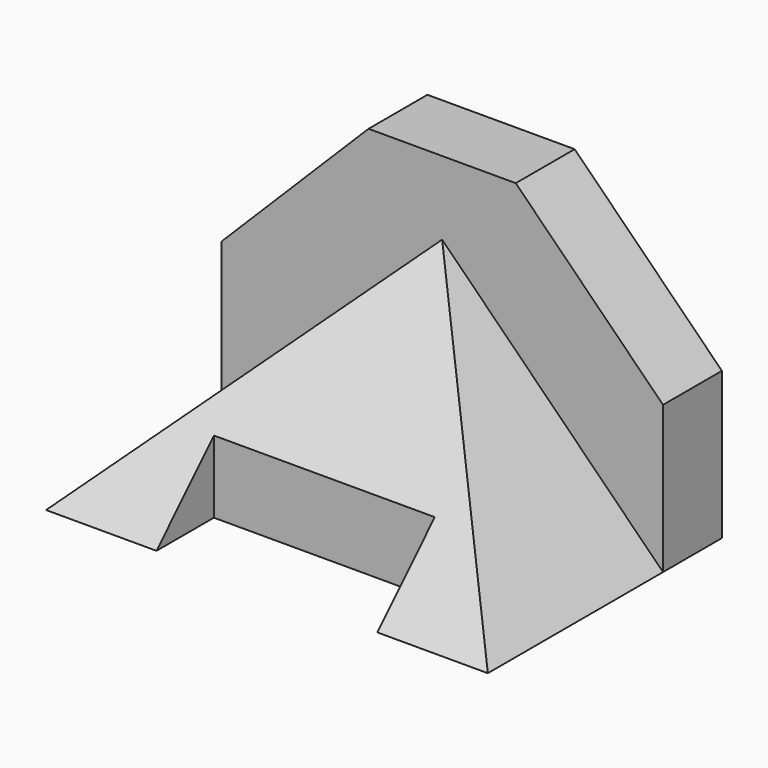
from build123d import *

# Parameters (mm, degrees)
F1_DEPTH = 12.7
F3_DEPTH = 38.1
F4_W     = 38.1
F4_H     = 12.7
F5_DEPTH = 50.801
F7_DEPTH = 76.201


with BuildPart() as f1:
    # F0 (on Front) → F1 (new body)
    with BuildSketch(Plane.XZ):
        Polygon((25.4, 50.8), (0, 25.4), (0, 0), (76.2, 0), (76.2, 25.4), (50.8, 50.8), align=None)
    extrude(amount=F1_DEPTH)

    # F2 (on face) → F3 (join)
    with BuildSketch(Plane.XZ.offset(12.7)):
        Polygon((0, 0), (76.2, 0), (38.1, 38.1), align=None)
    extrude(amount=F3_DEPTH)

    # F4 (on face) → F5 (cut, through all)
    with BuildSketch(Plane(origin=(0, 0, 0), x_dir=(1, 0, 0), z_dir=(0, 0, -1))):
        with Locations((38.1, 44.45)):
            Rectangle(F4_W, F4_H)
    extrude(amount=-F5_DEPTH, mode=Mode.SUBTRACT)

    # F6 (on face) → F7 (cut, through all)
    with BuildSketch(Plane.YZ.offset(76.2)):
        Polygon((-51.202006, -0.734927), (-12.7, 38.1), (-51.202006, 38.1), align=None)
    extrude(amount=-F7_DEPTH, mode=Mode.SUBTRACT)


solid = f1.part
